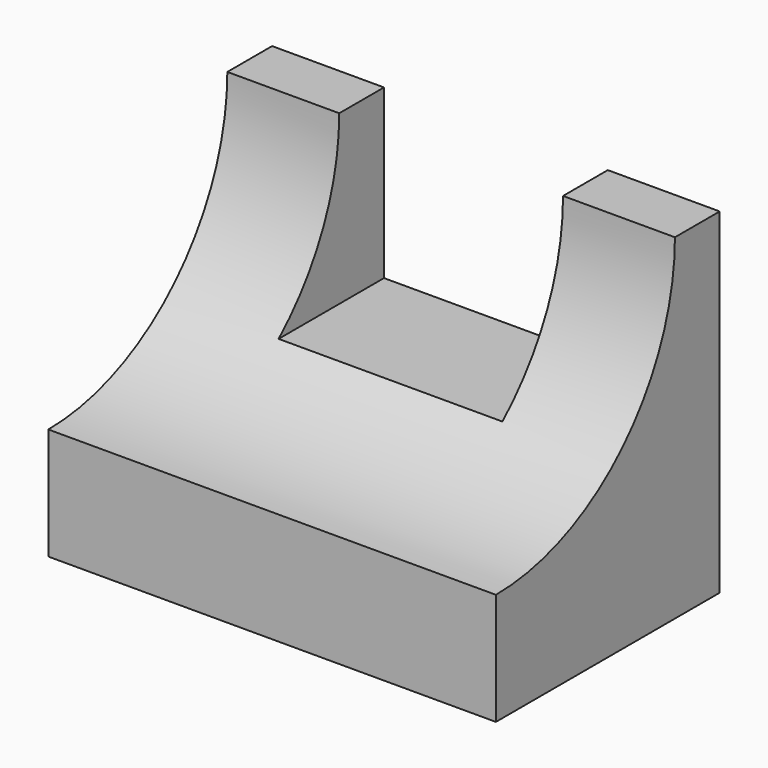
from build123d import *

# Parameters (mm, degrees)
F0_W     = 63.5
F0_H     = 76.2
F1_DEPTH = 101.6
F3_W     = 50.8
F3_H     = 38.1
F4_DEPTH = 63.501
F5_DEPTH = 101.601


with BuildPart() as f1:
    # F0 (on Right) → F1 (new body)
    with BuildSketch(Plane.YZ):
        with Locations((1.986064, 14.267234)):
            Rectangle(F0_W, F0_H)
    extrude(amount=-F1_DEPTH)

    # F3 (on face) → F4 (cut, through all)
    with BuildSketch(Plane.XZ.offset(29.763936)):
        with Locations((-50.8, 33.317234)):
            Rectangle(F3_W, F3_H)
    extrude(amount=-F4_DEPTH, mode=Mode.SUBTRACT)

    # F2 (on face) → F5 (cut, through all)
    with BuildSketch(Plane.YZ):
        with BuildLine():
            ThreePointArc((-29.763936, 1.567234), (6.157089, 16.446209), (21.036064, 52.367234))
            Line((21.036064, 52.367234), (-29.763936, 52.367234))
            Line((-29.763936, 52.367234), (-29.763936, 1.567234))
        make_face()
        with BuildLine():
            Line((-29.763936, 52.367234), (21.036064, 52.367234))
            ThreePointArc((21.036064, 52.367234), (-65.68496, 88.288258), (-29.763936, 1.567234))
            Line((-29.763936, 1.567234), (-29.763936, 52.367234))
        make_face()
    extrude(amount=-F5_DEPTH, mode=Mode.SUBTRACT)


solid = f1.part
